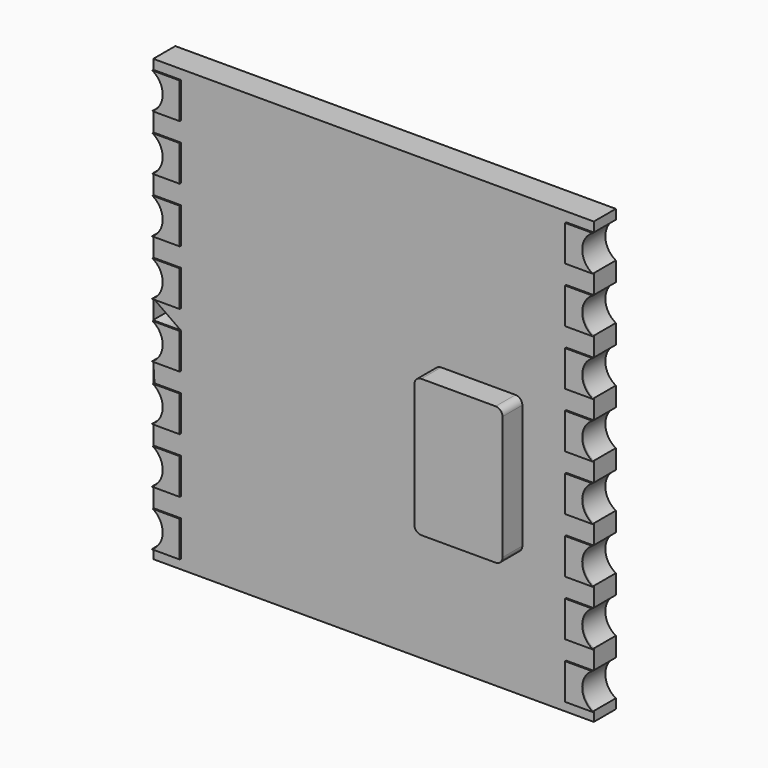
from build123d import *

# Parameters (mm, degrees)
F1_DEPTH = 1
F3_DEPTH = 0.05
F4_W     = 3.2
F4_H     = 5
F5_DEPTH = 0.9
F6_R     = 0.25


with BuildPart() as f1:
    # F0 (on Front) → F1 (new body)
    with BuildSketch(Plane.XZ):
        Polygon((0, 0.35), (0, 0), (16, 0), (16, 0.35), (15, 0.35), (15, 1.65), (16, 1.65), (16, 2.35), (15, 2.35), (15, 3.65), (16, 3.65), (16, 4.35), (15, 4.35), (15, 5.65), (16, 5.65), (16, 6.35), (15, 6.35), (15, 7.65), (16, 7.65), (16, 8.35), (15, 8.35), (15, 9.65), (16, 9.65), (16, 10.35), (15, 10.35), (15, 11.65), (16, 11.65), (16, 12.35), (15, 12.35), (15, 13.65), (16, 13.65), (16, 14.35), (15, 14.35), (15, 15.65), (16, 15.65), (16, 16), (0, 16), (0, 15.65), (1, 15.65), (1, 14.35), (0, 14.35), (0, 13.65), (1, 13.65), (1, 12.35), (0, 12.35), (0, 11.65), (1, 11.65), (1, 10.35), (0, 10.35), (0, 9.65), (1, 9.65), (1, 8.35), (0, 8.35), (0, 7.65), (1, 7.65), (1, 6.35), (0, 6.35), (0, 5.65), (1, 5.65), (1, 4.35), (0, 4.35), (0, 3.65), (1, 3.65), (1, 2.35), (0, 2.35), (0, 1.65), (1, 1.65), (1, 0.35), align=None)
        with BuildLine():
            ThreePointArc((0, 13.65), (0.380511, 13), (0, 12.35))
            Line((0, 12.35), (1, 12.35))
            Line((1, 12.35), (1, 13.65))
            Line((1, 13.65), (0, 13.65))
        make_face()
        with BuildLine():
            ThreePointArc((0, 11.65), (0.380511, 11), (0, 10.35))
            Line((0, 10.35), (1, 10.35))
            Line((1, 10.35), (1, 11.65))
            Line((1, 11.65), (0, 11.65))
        make_face()
        with BuildLine():
            ThreePointArc((0, 9.65), (0.380511, 9), (0, 8.35))
            Line((0, 8.35), (1, 8.35))
            Line((1, 8.35), (1, 9.65))
            Line((1, 9.65), (0, 9.65))
        make_face()
        with BuildLine():
            ThreePointArc((0, 7.65), (0.380511, 7), (0, 6.35))
            Line((0, 6.35), (1, 6.35))
            Line((1, 6.35), (1, 7.65))
            Line((1, 7.65), (0, 7.65))
        make_face()
        with BuildLine():
            ThreePointArc((0, 5.65), (0.380511, 5), (0, 4.35))
            Line((0, 4.35), (1, 4.35))
            Line((1, 4.35), (1, 5.65))
            Line((1, 5.65), (0, 5.65))
        make_face()
        with BuildLine():
            ThreePointArc((0, 3.65), (0.380511, 3), (0, 2.35))
            Line((0, 2.35), (1, 2.35))
            Line((1, 2.35), (1, 3.65))
            Line((1, 3.65), (0, 3.65))
        make_face()
        with BuildLine():
            ThreePointArc((0, 1.65), (0.380511, 1), (0, 0.35))
            Line((0, 0.35), (1, 0.35))
            Line((1, 0.35), (1, 1.65))
            Line((1, 1.65), (0, 1.65))
        make_face()
        with BuildLine():
            Line((15, 4.35), (16, 4.35))
            ThreePointArc((16, 4.35), (15.619489, 5), (16, 5.65))
            Line((16, 5.65), (15, 5.65))
            Line((15, 5.65), (15, 4.35))
        make_face()
        with BuildLine():
            Line((15, 6.35), (16, 6.35))
            ThreePointArc((16, 6.35), (15.619489, 7), (16, 7.65))
            Line((16, 7.65), (15, 7.65))
            Line((15, 7.65), (15, 6.35))
        make_face()
        with BuildLine():
            Line((15, 8.35), (16, 8.35))
            ThreePointArc((16, 8.35), (15.619489, 9), (16, 9.65))
            Line((16, 9.65), (15, 9.65))
            Line((15, 9.65), (15, 8.35))
        make_face()
        with BuildLine():
            Line((15, 10.35), (16, 10.35))
            ThreePointArc((16, 10.35), (15.619489, 11), (16, 11.65))
            Line((16, 11.65), (15, 11.65))
            Line((15, 11.65), (15, 10.35))
        make_face()
        with BuildLine():
            Line((15, 12.35), (16, 12.35))
            ThreePointArc((16, 12.35), (15.619489, 13), (16, 13.65))
            Line((16, 13.65), (15, 13.65))
            Line((15, 13.65), (15, 12.35))
        make_face()
        with BuildLine():
            Line((15, 14.35), (16, 14.35))
            ThreePointArc((16, 14.35), (15.619489, 15), (16, 15.65))
            Line((16, 15.65), (15, 15.65))
            Line((15, 15.65), (15, 14.35))
        make_face()
        with BuildLine():
            Line((15, 2.35), (16, 2.35))
            ThreePointArc((16, 2.35), (15.619489, 3), (16, 3.65))
            Line((16, 3.65), (15, 3.65))
            Line((15, 3.65), (15, 2.35))
        make_face()
        with BuildLine():
            Line((15, 0.35), (16, 0.35))
            ThreePointArc((16, 0.35), (15.619489, 1), (16, 1.65))
            Line((16, 1.65), (15, 1.65))
            Line((15, 1.65), (15, 0.35))
        make_face()
        with BuildLine():
            ThreePointArc((0, 15.65), (0.380511, 15), (0, 14.35))
            Line((0, 14.35), (1, 14.35))
            Line((1, 14.35), (1, 15.65))
            Line((1, 15.65), (0, 15.65))
        make_face()
    extrude(amount=F1_DEPTH)

    # F2 (on face) → F3 (join)
    with BuildSketch(Plane.XZ.offset(1)):
        with BuildLine():
            ThreePointArc((16, 14.35), (15.619489, 15), (16, 15.65))
            Line((16, 15.65), (15, 15.65))
            Line((15, 15.65), (15, 14.35))
            Line((15, 14.35), (16, 14.35))
        make_face()
        with BuildLine():
            ThreePointArc((16, 12.35), (15.619493, 12.997842), (15.996242, 13.647876))
            Line((15.996242, 13.647876), (15, 13.647876))
            Line((15, 13.647876), (15, 12.347876))
            Line((15, 12.347876), (16, 12.347876))
            Line((16, 12.347876), (16, 12.35))
        make_face()
        with BuildLine():
            ThreePointArc((16, 10.35), (15.619502, 10.995706), (15.992535, 11.645752))
            Line((15.992535, 11.645752), (15, 11.645752))
            Line((15, 11.645752), (15, 10.345752))
            Line((15, 10.345752), (16, 10.345752))
            Line((16, 10.345752), (16, 10.35))
        make_face()
        with BuildLine():
            ThreePointArc((16, 8.35), (15.619517, 8.99359), (15.988876, 9.643628))
            Line((15.988876, 9.643628), (15, 9.643628))
            Line((15, 9.643628), (15, 8.343628))
            Line((15, 8.343628), (16, 8.343628))
            Line((16, 8.343628), (16, 8.35))
        make_face()
        with BuildLine():
            ThreePointArc((16, 6.35), (15.619538, 6.991495), (15.985264, 7.641505))
            Line((15.985264, 7.641505), (15, 7.641505))
            Line((15, 7.641505), (15, 6.341505))
            Line((15, 6.341505), (16, 6.341505))
            Line((16, 6.341505), (16, 6.35))
        make_face()
        with BuildLine():
            ThreePointArc((16, 4.35), (15.619565, 4.98942), (15.981698, 5.639381))
            Line((15.981698, 5.639381), (15, 5.639381))
            Line((15, 5.639381), (15, 4.339381))
            Line((15, 4.339381), (16, 4.339381))
            Line((16, 4.339381), (16, 4.35))
        make_face()
        with BuildLine():
            ThreePointArc((16, 2.35), (15.619597, 2.987364), (15.978177, 3.637257))
            Line((15.978177, 3.637257), (15, 3.637257))
            Line((15, 3.637257), (15, 2.337257))
            Line((15, 2.337257), (16, 2.337257))
            Line((16, 2.337257), (16, 2.35))
        make_face()
        with BuildLine():
            ThreePointArc((16, 0.35), (15.619634, 0.985327), (15.974699, 1.635133))
            Line((15.974699, 1.635133), (15, 1.635133))
            Line((15, 1.635133), (15, 0.335133))
            Line((15, 0.335133), (16, 0.335133))
            Line((16, 0.335133), (16, 0.35))
        make_face()
        with BuildLine():
            Line((1, 1.635133), (0.025301, 1.635133))
            ThreePointArc((0.025301, 1.635133), (0.380366, 0.985327), (0, 0.35))
            Line((0, 0.35), (0, 0.335133))
            Line((0, 0.335133), (1, 0.335133))
            Line((1, 0.335133), (1, 1.635133))
        make_face()
        with BuildLine():
            Line((1, 3.637257), (0.021823, 3.637257))
            ThreePointArc((0.021823, 3.637257), (0.380403, 2.987364), (0, 2.35))
            Line((0, 2.35), (0, 2.337257))
            Line((0, 2.337257), (1, 2.337257))
            Line((1, 2.337257), (1, 3.637257))
        make_face()
        with BuildLine():
            Line((1, 5.639381), (0.018302, 5.639381))
            ThreePointArc((0.018302, 5.639381), (0.380435, 4.98942), (0, 4.35))
            Line((0, 4.35), (0, 4.339381))
            Line((0, 4.339381), (1, 4.339381))
            Line((1, 4.339381), (1, 5.639381))
        make_face()
        with BuildLine():
            Line((1, 7.641505), (0.014736, 7.641505))
            ThreePointArc((0.014736, 7.641505), (0.380462, 6.991495), (0, 6.35))
            Line((0, 6.35), (0, 6.341505))
            Line((0, 6.341505), (1, 6.341505))
            Line((1, 6.341505), (1, 7.641505))
        make_face()
        with BuildLine():
            Line((1, 9.643628), (0.011124, 9.643628))
            ThreePointArc((0.011124, 9.643628), (0.380483, 8.99359), (0, 8.35))
            Line((0, 8.35), (0, 8.343628))
            Line((0, 8.343628), (1, 8.343628))
            Line((1, 8.343628), (1, 9.643628))
        make_face()
        with BuildLine():
            Line((1, 11.645752), (0.007465, 11.645752))
            ThreePointArc((0.007465, 11.645752), (0.380498, 10.995706), (0, 10.35))
            Line((0, 10.35), (0, 10.345752))
            Line((0, 10.345752), (1, 10.345752))
            Line((1, 10.345752), (1, 11.645752))
        make_face()
        with BuildLine():
            Line((1, 13.647876), (0.003758, 13.647876))
            ThreePointArc((0.003758, 13.647876), (0.380507, 12.997842), (0, 12.35))
            Line((0, 12.35), (0, 12.347876))
            Line((0, 12.347876), (1, 12.347876))
            Line((1, 12.347876), (1, 13.647876))
        make_face()
        with BuildLine():
            Line((1, 15.65), (0, 15.65))
            ThreePointArc((0, 15.65), (0.380511, 15), (0, 14.35))
            Line((0, 14.35), (1, 14.35))
            Line((1, 14.35), (1, 15.65))
        make_face()
    extrude(amount=F3_DEPTH)

    # F4 (on face) → F5 (join)
    with BuildSketch(Plane.XZ.offset(1)):
        with Locations((11.804315, 7.033254)):
            Rectangle(F4_W, F4_H)
    extrude(amount=F5_DEPTH)

    # F6
    f6_edges = [f1.edges().sort_by_distance(p)[0] for p in [
        (10.204315, -1.45, 4.533254),
        (13.404315, -1.45, 4.533254),
        (10.204315, -1.45, 9.533254),
        (13.404315, -1.45, 9.533254),
    ]]
    fillet(f6_edges, radius=F6_R)


solid = f1.part
